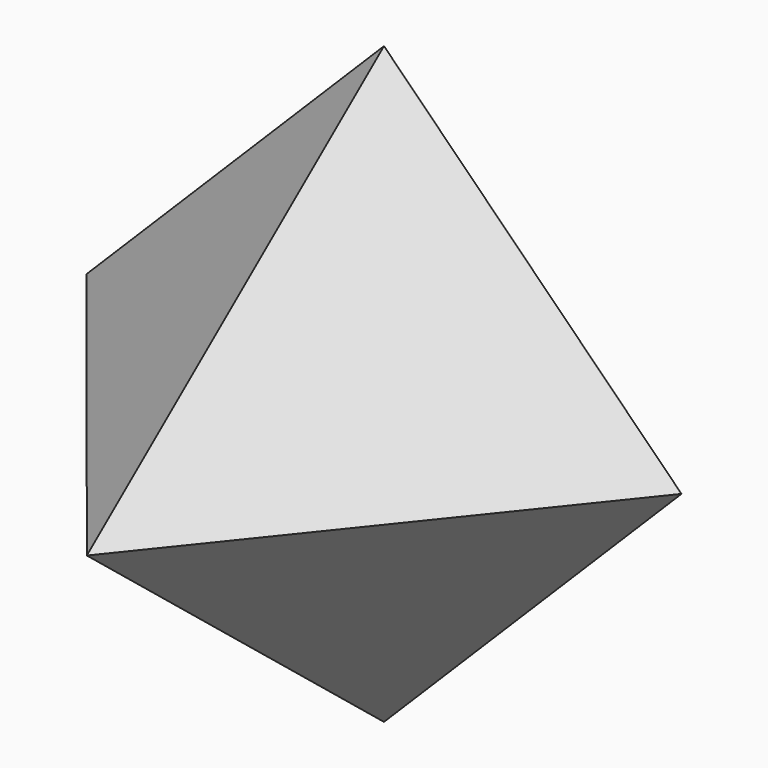
from build123d import *


with BuildPart() as f3:
    # F0 (on Front) → F3 section 0
    with BuildSketch(Plane.XZ, mode=Mode.PRIVATE) as f3_s0:
        Polygon((58.381151, 0), (0, 58.381151), (-58.381151, 0), (0, -58.381151), align=None)
    loft([f3_s0.sketch, Vertex(0, -72.9, 0)])


solid = f3.part
